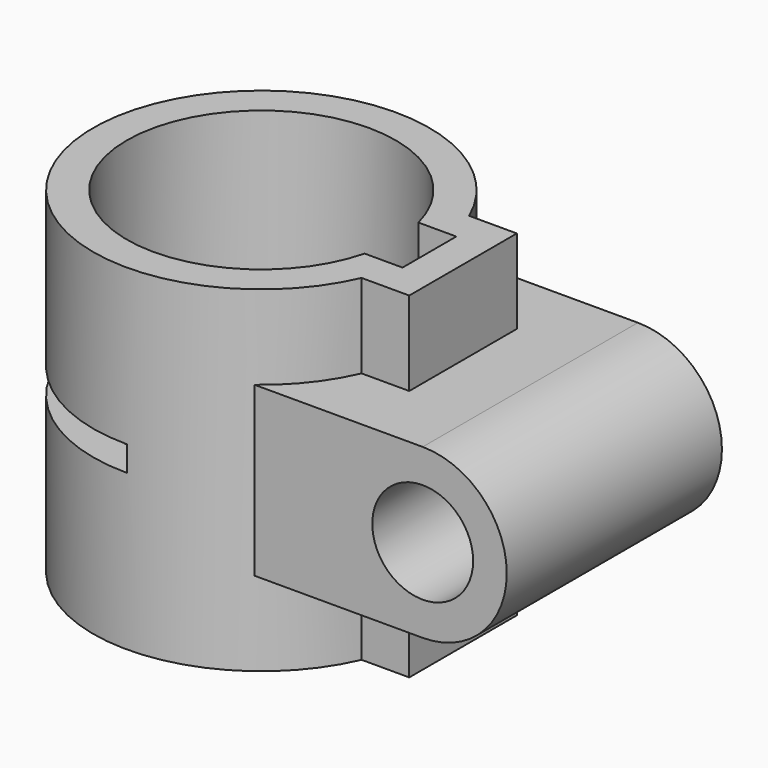
from build123d import *

# Parameters (mm, degrees)
F1_DEPTH      = 10
F1_DEPTH_BACK = 10
F3_DEPTH      = 8
F3_DEPTH_BACK = 8
F5_DEPTH      = 20.001
F6_R          = 3
F7_DEPTH      = 18.001
F8_W          = 12
F8_H          = 1.5
F9_DEPTH      = 10.001
F9_DEPTH_BACK = 10.001


with BuildPart() as f1:
    # F0 (on Top) → F1 (new body, two sides)
    with BuildSketch(Plane.XY) as f1_sk:
        with BuildLine():
            Line((12, 4), (9.1651513899, 4))
            ThreePointArc((9.1651513899, 4), (-10, 0), (9.1651513899, -4))
            Line((9.1651513899, -4), (12, -4))
            Line((12, -4), (12, 4))
        make_face()
    extrude(amount=F1_DEPTH)
    extrude(f1_sk.sketch, amount=-F1_DEPTH_BACK)

    # F2 (on Front) → F3 (join, two sides)
    with BuildSketch(Plane.XZ) as f3_sk:
        with BuildLine():
            Line((16, 5), (0, 5))
            Line((0, 5), (0, -5))
            Line((0, -5), (16, -5))
            ThreePointArc((16, -5), (21, 0), (16, 5))
        make_face()
    extrude(amount=F3_DEPTH)
    extrude(f3_sk.sketch, amount=-F3_DEPTH_BACK)

    # F4 (on face) → F5 (cut, through all)
    with BuildSketch(Plane.XY.offset(10)):
        with BuildLine():
            Line((10, 2), (7.7459666924, 2))
            ThreePointArc((7.7459666924, 2), (-8, 0), (7.7459666924, -2))
            Line((7.7459666924, -2), (10, -2))
            Line((10, -2), (10, 2))
        make_face()
    extrude(amount=-F5_DEPTH, mode=Mode.SUBTRACT)

    # F6 (on face) → F7 (cut, through all)
    with BuildSketch(Plane.XZ.offset(8)):
        with Locations((16, 0)):
            Circle(F6_R)
    extrude(amount=-F7_DEPTH, mode=Mode.SUBTRACT)

    # F8 (on Front) → F9 (cut, two sides)
    with BuildSketch(Plane.XZ) as f9_sk:
        with Locations((-6, 0)):
            Rectangle(F8_W, F8_H)
    extrude(amount=-F9_DEPTH, mode=Mode.SUBTRACT)
    extrude(f9_sk.sketch, amount=F9_DEPTH_BACK, mode=Mode.SUBTRACT)


solid = f1.part
